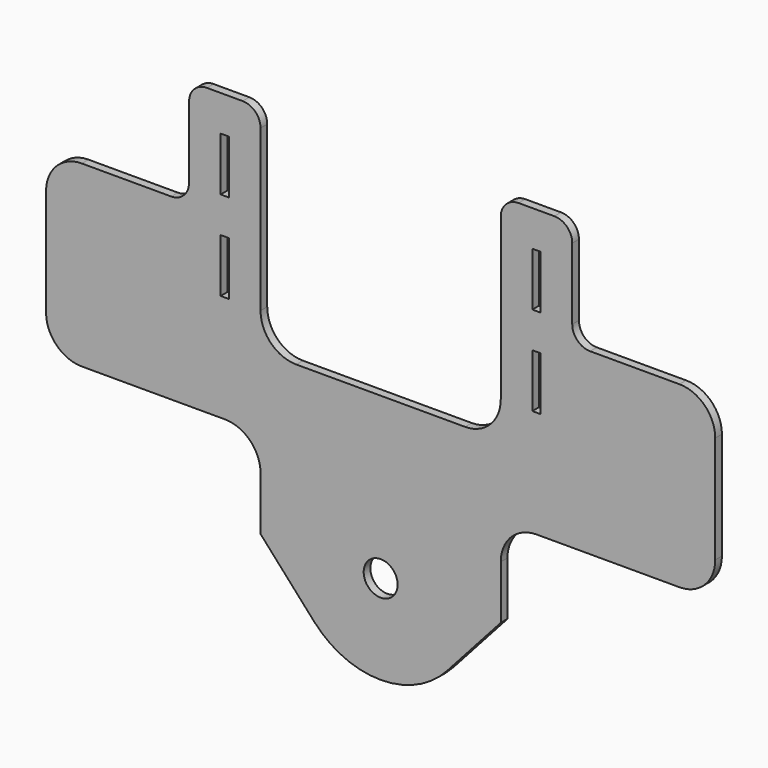
from build123d import *

# Parameters (mm, degrees)
F0_W     = 2.9718
F0_H     = 19.05
F0_R     = 6.0325
F1_DEPTH = 2.9718


with BuildPart() as f1:
    # F0 (on Front) → F1 (new body)
    with BuildSketch(Plane.XZ):
        with BuildLine():
            ThreePointArc((-23.622973, -21.213619), (-11.358545, 29.648709), (31.75, 0))
            ThreePointArc((31.75, 0), (29.648709, -11.358545), (23.622973, -21.213619))
            Line((23.622973, -21.213619), (42.672973, 0))
            Line((42.672973, 0), (42.672973, 19.05))
            ThreePointArc((42.672973, 19.05), (46.392717, 28.030256), (55.372973, 31.75))
            Line((55.372973, 31.75), (106.172973, 31.75))
            ThreePointArc((106.172973, 31.75), (115.153229, 35.469744), (118.872973, 44.45))
            Line((118.872973, 44.45), (118.872973, 82.55))
            ThreePointArc((118.872973, 82.55), (115.153229, 91.530256), (106.172973, 95.25))
            Line((106.172973, 95.25), (74.422973, 95.25))
            ThreePointArc((74.422973, 95.25), (69.932845, 97.109872), (68.072973, 101.6))
            Line((68.072973, 101.6), (68.072973, 127))
            ThreePointArc((68.072973, 127), (66.213101, 131.490128), (61.722973, 133.35))
            Line((61.722973, 133.35), (49.022973, 133.35))
            ThreePointArc((49.022973, 133.35), (44.532845, 131.490128), (42.672973, 127))
            Line((42.672973, 127), (42.672973, 69.85))
            ThreePointArc((42.672973, 69.85), (38.953229, 60.869744), (29.972973, 57.15))
            Line((29.972973, 57.15), (-29.972973, 57.15))
            ThreePointArc((-29.972973, 57.15), (-38.953229, 60.869744), (-42.672973, 69.85))
            Line((-42.672973, 69.85), (-42.672973, 127))
            ThreePointArc((-42.672973, 127), (-44.532845, 131.490128), (-49.022973, 133.35))
            Line((-49.022973, 133.35), (-61.722973, 133.35))
            ThreePointArc((-61.722973, 133.35), (-66.213101, 131.490128), (-68.072973, 127))
            Line((-68.072973, 127), (-68.072973, 101.6))
            ThreePointArc((-68.072973, 101.6), (-69.932845, 97.109872), (-74.422973, 95.25))
            Line((-74.422973, 95.25), (-106.172973, 95.25))
            ThreePointArc((-106.172973, 95.25), (-115.153229, 91.530256), (-118.872973, 82.55))
            Line((-118.872973, 82.55), (-118.872973, 44.45))
            ThreePointArc((-118.872973, 44.45), (-115.153229, 35.469744), (-106.172973, 31.75))
            Line((-106.172973, 31.75), (-55.372973, 31.75))
            ThreePointArc((-55.372973, 31.75), (-46.392717, 28.030256), (-42.672973, 19.05))
            Line((-42.672973, 19.05), (-42.672973, 0))
            Line((-42.672973, 0), (-23.622973, -21.213619))
        make_face()
        with Locations((-55.372973, 79.375)):
            Rectangle(F0_W, F0_H, mode=Mode.SUBTRACT)
        with Locations((-55.372973, 111.125)):
            Rectangle(F0_W, F0_H, mode=Mode.SUBTRACT)
        with Locations((55.372973, 79.375)):
            Rectangle(F0_W, F0_H, mode=Mode.SUBTRACT)
        with Locations((55.372973, 111.125)):
            Rectangle(F0_W, F0_H, mode=Mode.SUBTRACT)
        with BuildLine():
            ThreePointArc((23.622973, -21.213619), (29.648709, -11.358545), (31.75, 0))
            ThreePointArc((31.75, 0), (-11.358545, 29.648709), (-23.622973, -21.213619))
            ThreePointArc((-23.622973, -21.213619), (0, -31.75), (23.622973, -21.213619))
        make_face()
        Circle(F0_R, mode=Mode.SUBTRACT)
    extrude(amount=F1_DEPTH)


solid = f1.part
